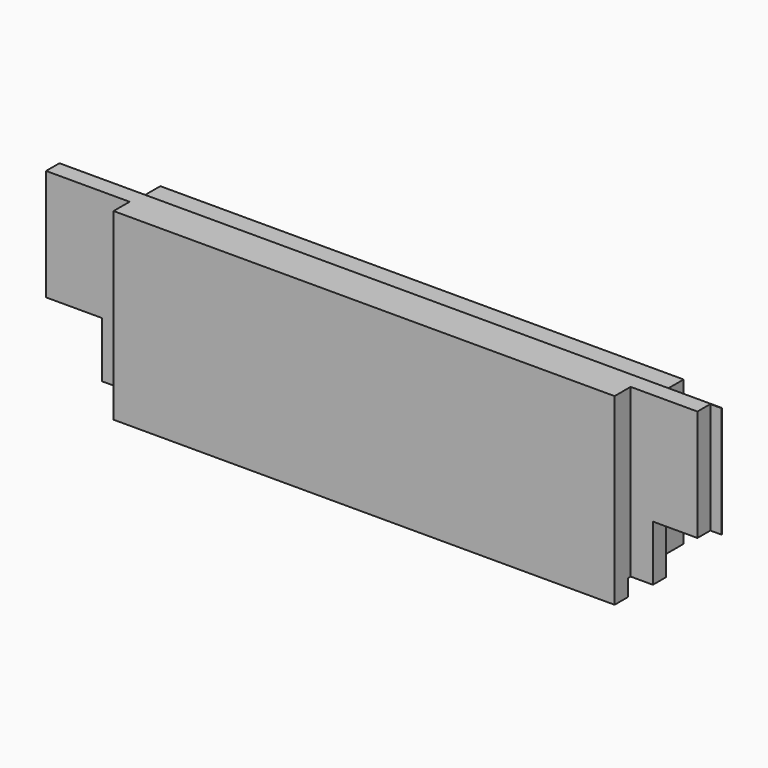
from build123d import *

# Parameters (mm, degrees)
SKETCH053_W     = 610
SKETCH053_H     = 165
PAD005_DEPTH    = 65
SKETCH054_W     = 60
SKETCH054_H     = 32
SKETCH054_W_2   = 70
SKETCH054_H_2   = 18
POCKET047_DEPTH = 165.001
SKETCH055_W     = 80
SKETCH055_H     = 32
SKETCH055_W_2   = 90
SKETCH055_H_2   = 18
POCKET048_DEPTH = 165.001
SKETCH056_W     = 50
SKETCH056_H     = 65
POCKET049_DEPTH = 65.001
SKETCH057_W     = 65
SKETCH057_H     = 65
POCKET050_DEPTH = 65.001
SKETCH059_W     = 610
SKETCH059_H     = 32
POCKET052_DEPTH = 10
SKETCH060_W     = 20
SKETCH060_H     = 25
POCKET053_DEPTH = 610.001
SKETCH061_W     = 50
SKETCH061_H     = 15
POCKET054_DEPTH = 610.001
SKETCH062_W     = 15
SKETCH062_H     = 65
POCKET055_DEPTH = 165.001
SKETCH063_W     = 10
SKETCH063_H     = 32.5
POCKET056_DEPTH = 165.001


with BuildPart() as part:
    # Sketch053 (on DatumPlane) → Pad005 (new body)
    with BuildSketch(Plane.XZ.offset(32.5)):
        Rectangle(SKETCH053_W, SKETCH053_H)
    extrude(amount=-PAD005_DEPTH)

    # Sketch054 (on DatumPlane) → Pocket047 (cut, through all)
    with BuildSketch(Plane.XY.offset(82.5)):
        with Locations((275, 16.5)):
            Rectangle(SKETCH054_W, SKETCH054_H)
        with Locations((270, -23.5)):
            Rectangle(SKETCH054_W_2, SKETCH054_H_2)
    extrude(amount=-POCKET047_DEPTH, mode=Mode.SUBTRACT)

    # Sketch055 (on DatumPlane) → Pocket048 (cut, through all)
    with BuildSketch(Plane.XY.offset(82.5)):
        with Locations((-265, 16.5)):
            Rectangle(SKETCH055_W, SKETCH055_H)
        with Locations((-260, -23.5)):
            Rectangle(SKETCH055_W_2, SKETCH055_H_2)
    extrude(amount=-POCKET048_DEPTH, mode=Mode.SUBTRACT)

    # Sketch056 (on DatumPlane) → Pocket049 (cut, through all)
    with BuildSketch(Plane.XZ.offset(32.5)):
        with Locations((280, -50)):
            Rectangle(SKETCH056_W, SKETCH056_H)
    extrude(amount=-POCKET049_DEPTH, mode=Mode.SUBTRACT)

    # Sketch057 (on DatumPlane) → Pocket050 (cut, through all)
    with BuildSketch(Plane.XZ.offset(32.5)):
        with Locations((-272.5, -50)):
            Rectangle(SKETCH057_W, SKETCH057_H)
    extrude(amount=-POCKET050_DEPTH, mode=Mode.SUBTRACT)

    # Sketch059 (on DatumPlane) → Pocket052 (cut)
    with BuildSketch(Plane.XY.offset(82.5)):
        with Locations((0, 16.5)):
            Rectangle(SKETCH059_W, SKETCH059_H)
    extrude(amount=-POCKET052_DEPTH, mode=Mode.SUBTRACT)

    # Sketch060 (on DatumPlane) → Pocket053 (cut, through all)
    with BuildSketch(Plane.YZ.offset(305)):
        with Locations((22.5, -70)):
            Rectangle(SKETCH060_W, SKETCH060_H)
    extrude(amount=-POCKET053_DEPTH, mode=Mode.SUBTRACT)

    # Sketch061 (on DatumPlane) → Pocket054 (cut, through all)
    with BuildSketch(Plane.YZ.offset(305)):
        with Locations((7.5, -75)):
            Rectangle(SKETCH061_W, SKETCH061_H)
    extrude(amount=-POCKET054_DEPTH, mode=Mode.SUBTRACT)

    # Sketch062 (on DatumPlane) → Pocket055 (cut, through all)
    with BuildSketch(Plane.XY.offset(82.5)):
        with Locations((-297.5, 0)):
            Rectangle(SKETCH062_W, SKETCH062_H)
    extrude(amount=-POCKET055_DEPTH, mode=Mode.SUBTRACT)

    # Sketch063 (on DatumPlane) → Pocket056 (cut, through all)
    with BuildSketch(Plane.XY.offset(82.5)):
        with Locations((300, -16.25)):
            Rectangle(SKETCH063_W, SKETCH063_H)
    extrude(amount=-POCKET056_DEPTH, mode=Mode.SUBTRACT)


solid = part.part
